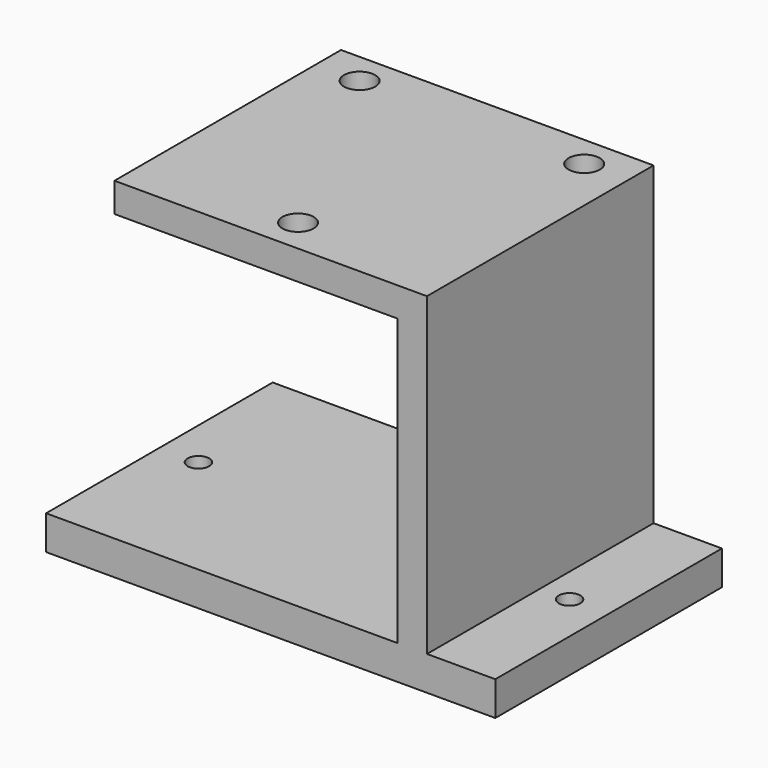
from build123d import *

# Parameters (mm, degrees)
F0_W     = 46
F0_H     = 29
F1_DEPTH = 3.5
F2_W     = 32
F2_H     = 29
F3_DEPTH = 32.25
F4_W     = 29
F4_H     = 29.25
F5_DEPTH = 29
F7_D     = 3.2
F7_DEPTH = 4.1
F7_TIP   = 0.9613769904
F9_D     = 2.2


with BuildPart() as f1:
    # F0 (on Top) → F1 (new body)
    with BuildSketch(Plane.XY):
        Rectangle(F0_W, F0_H)
    extrude(amount=F1_DEPTH)

    # F2 (on face) → F3 (join)
    with BuildSketch(Plane.XY.offset(3.5)):
        Rectangle(F2_W, F2_H)
    extrude(amount=F3_DEPTH)

    # F4 (on face) → F5 (cut)
    with BuildSketch(Plane.XZ.offset(14.5)):
        with Locations((-1.5, 18.125)):
            Rectangle(F4_W, F4_H)
    extrude(amount=-F5_DEPTH, mode=Mode.SUBTRACT)

    # F7
    with Locations(Plane.XY.offset(35.75)):
        with Locations((-11.5, 11.25), (11.5, 11.25), (0, -11)):
            Hole(F7_D / 2, depth=F7_DEPTH)
            with Locations((0, 0, -(F7_DEPTH + F7_TIP / 2))):  # 118° drill point
                Cone(0, F7_D / 2, F7_TIP, mode=Mode.SUBTRACT)

    # F9 (through all)
    with Locations(Plane.XY.offset(3.5)):
        with Locations((-19, 0), (19, 0)):
            Hole(F9_D / 2)


solid = f1.part
